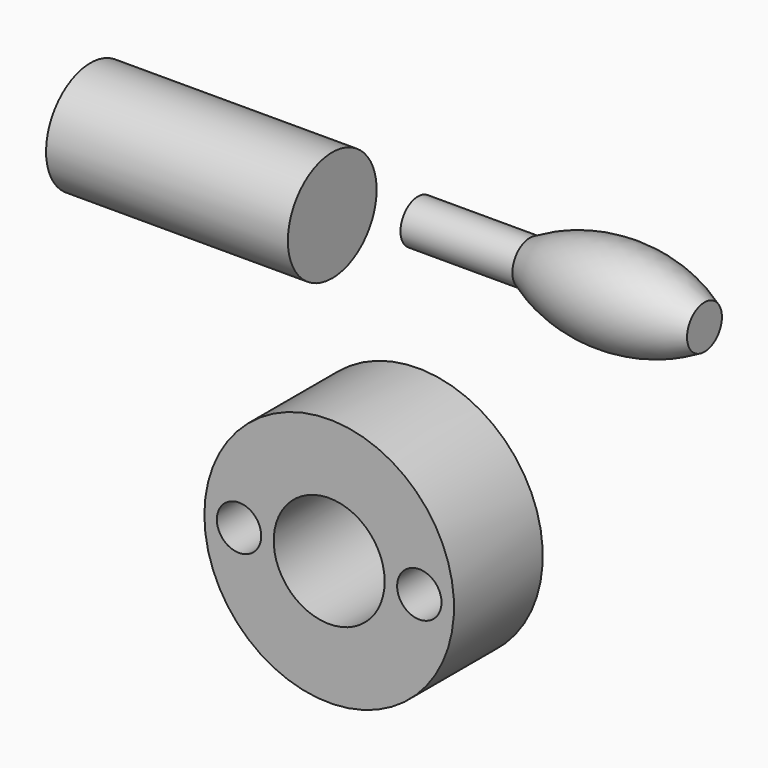
from build123d import *

# Parameters (mm, degrees)
F0_R     = 4
F1_DEPTH = 20
F4_W     = 43.5897379518
F4_H     = 10


with BuildPart() as f1:
    # F0 (on Front) → F1 (new body)
    with BuildSketch(Plane.XZ):
        with BuildLine():
            ThreePointArc((10, 0), (16.25, 6.25), (22.5, 0))
            ThreePointArc((22.5, 0), (4.03e-08, 22.5), (-22.5, 8.06e-08))
            ThreePointArc((-22.5, 8.06e-08), (-16.2499999597, 6.25), (-10, 0))
            ThreePointArc((-10, 0), (0, 10), (10, 0))
        make_face()
        with BuildLine():
            ThreePointArc((10, 0), (16.25, -6.25), (22.5, 0))
            ThreePointArc((22.5, 0), (16.25, 6.25), (10, 0))
        make_face()
        with Locations((16.25, 0)):
            Circle(F0_R, mode=Mode.SUBTRACT)
        with BuildLine():
            ThreePointArc((-10, 0), (-16.2499999597, 6.25), (-22.5, 8.06e-08))
            ThreePointArc((-22.5, 8.06e-08), (-16.2500000403, -6.25), (-10, 0))
        make_face()
        with Locations((-16.25, 0)):
            Circle(F0_R, mode=Mode.SUBTRACT)
        with BuildLine():
            ThreePointArc((-22.5, 8.06e-08), (-4.03e-08, -22.5), (22.5, 0))
            ThreePointArc((22.5, 0), (16.25, -6.25), (10, 0))
            ThreePointArc((10, 0), (0, -10), (-10, 0))
            ThreePointArc((-10, 0), (-16.2500000403, -6.25), (-22.5, 8.06e-08))
        make_face()
    extrude(amount=F1_DEPTH)


with BuildPart() as f3:
    # F2 (on Front) → F3 (revolve)
    with BuildSketch(Plane.XZ):
        with BuildLine():
            Line((20.1721817479, 49.7323907912), (0, 49.7323907912))
            Line((0, 49.7323907912), (0, 45.7963943481))
            Line((0, 45.7963943481), (51.6536533833, 45.7963943481))
            Line((51.6536533833, 45.7963943481), (51.6536533833, 49.728649577))
            ThreePointArc((51.6536533833, 49.728649577), (51.6503998147, 49.7305203774), (51.6471460238, 49.7323907912))
            Line((51.6471460238, 49.7323907912), (20.1721817479, 49.7323907912))
        make_face()
        with BuildLine():
            ThreePointArc((51.6471460238, 49.7323907912), (35.9096638858, 53.9328531352), (20.1721817479, 49.7323907912))
            Line((20.1721817479, 49.7323907912), (51.6471460238, 49.7323907912))
        make_face()
    revolve(axis=Axis((25.8268266916, 0, 45.7963943481), (1, 0, 0)))


with BuildPart() as f5:
    # F4 (on Front) → F5 (revolve)
    with BuildSketch(Plane.XZ):
        with Locations((-37.2436190955, 36.7224626243)):
            Rectangle(F4_W, F4_H)
    revolve(axis=Axis((-37.2436190955, 0, 41.7224626243), (1, 0, 0)))


solid = Compound([f1.part, f3.part, f5.part])
